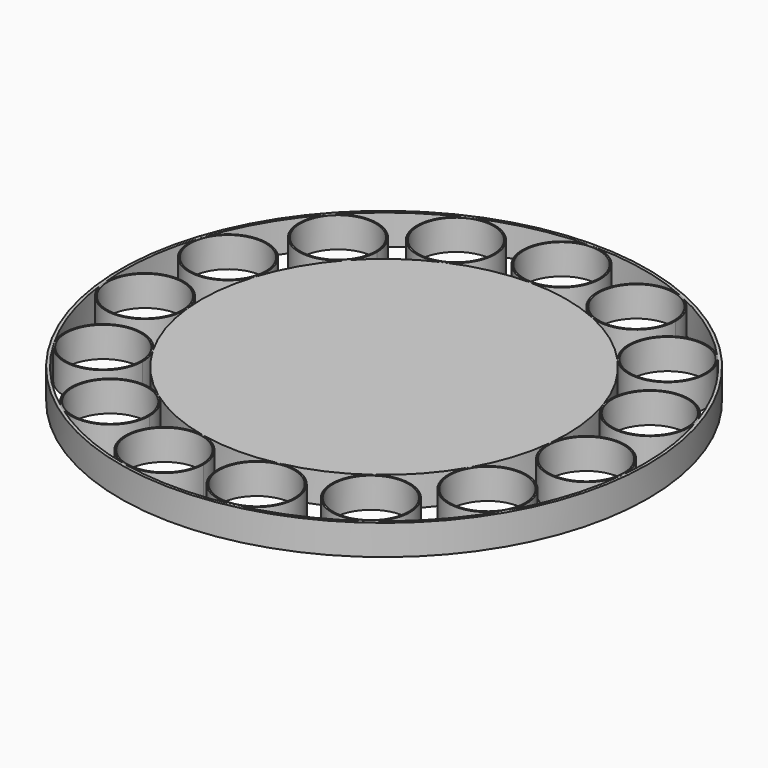
from build123d import *

# Parameters (mm, degrees)
F0_R     = 263
F1_DEPTH = 30
F0_R_2   = 179
F0_R_3   = 37.5
F2_R     = 179
F3_DEPTH = 2


with BuildPart() as f1:
    # F0 (on Top) → F1 (new body)
    with BuildSketch(Plane.XY):
        Circle(F0_R)
        with BuildLine():
            ThreePointArc((193.2176546024, 173.9739576774), (225.166605407, 129.9999992672), (247.2746947697, 80.3444168972))
            ThreePointArc((247.2746947697, 80.3444168972), (256.7989686896, 40.6729600587), (260, 0))
            ThreePointArc((260, 0), (259.6436790177, -13.6073489756), (258.575692722, -27.1774011515))
            ThreePointArc((258.575692722, -27.1774011515), (247.2746940659, -80.3444190634), (225.1666047839, -130.0000003465))
            ThreePointArc((225.1666047839, -130.0000003465), (193.21765526, -173.9739569471), (152.8241674573, -210.3444171852))
            ThreePointArc((152.8241674573, -210.3444171852), (105.7515281671, -237.5218185564), (54.0570394339, -254.3183762288))
            ThreePointArc((54.0570394339, -254.3183762288), (-6.34e-07, -260), (-54.0570406742, -254.3183759651))
            ThreePointArc((-54.0570406742, -254.3183759651), (-105.7515295767, -237.5218179288), (-152.8241689282, -210.3444161166))
            ThreePointArc((-152.8241689282, -210.3444161166), (-193.2176560273, -173.9739560949), (-225.1666050216, -129.9999999347))
            ThreePointArc((-225.1666050216, -129.9999999347), (-247.2746947128, -80.3444170722), (-258.57569311, -27.17739746))
            ThreePointArc((-258.57569311, -27.17739746), (-258.5756927288, 27.1774010868), (-247.2746947697, 80.3444168972))
            ThreePointArc((-247.2746947697, 80.3444168972), (-225.166605407, 129.9999992672), (-193.2176546024, 173.9739576774))
            ThreePointArc((-193.2176546024, 173.9739576774), (-152.8241652635, 210.3444187791), (-105.7515264782, 237.5218193083))
            ThreePointArc((-105.7515264782, 237.5218193083), (-54.0570388878, 254.3183763449), (6.922e-07, 260))
            ThreePointArc((6.922e-07, 260), (54.057040225, 254.3183760606), (105.7515277112, 237.5218187593))
            ThreePointArc((105.7515277112, 237.5218187593), (152.8241658094, 210.3444183825), (193.2176546024, 173.9739576774))
        make_face(mode=Mode.SUBTRACT)
    extrude(amount=-F1_DEPTH)


with BuildPart() as f1b:
    # F0 (on Top) → F1, piece 2 (new body)
    with BuildSketch(Plane.XY):
        with BuildLine():
            ThreePointArc((181.0029849186, -19.0241806807), (181.7505753157, -9.52514422), (182, 0))
            ThreePointArc((182, 0), (179.7592779717, 28.4710727424), (173.0922859, 56.2410931785))
            ThreePointArc((173.0922859, 56.2410931785), (157.6166237351, 90.9999995734), (135.2523590384, 121.7817694671))
            ThreePointArc((135.2523590384, 121.7817694671), (106.9769162369, 147.241092744), (74.0260686674, 166.2652734568))
            ThreePointArc((74.0260686674, 166.2652734568), (37.8399274863, 178.0228633851), (-8.82e-08, 182))
            ThreePointArc((-8.82e-08, 182), (-37.8399284124, 178.0228631882), (-74.0260702361, 166.2652727583))
            ThreePointArc((-74.0260702361, 166.2652727583), (-106.9769158012, 147.2410930605), (-135.2523571687, 121.7817715437))
            ThreePointArc((-135.2523571687, 121.7817715437), (-157.6166228999, 91.0000010199), (-173.0922857312, 56.241093698))
            ThreePointArc((-173.0922857312, 56.241093698), (-181.0029849436, 19.0241804426), (-181.0029849046, -19.0241808138))
            ThreePointArc((-181.0029849046, -19.0241808138), (-173.092286098, -56.2410925691), (-157.6166241678, -90.9999988239))
            ThreePointArc((-157.6166241678, -90.9999988239), (-135.2523585732, -121.7817699838), (-106.9769156318, -147.2410931836))
            ThreePointArc((-106.9769156318, -147.2410931836), (-74.0260678266, -166.2652738311), (-37.839925476, -178.0228638124))
            ThreePointArc((-37.839925476, -178.0228638124), (-2.297e-07, -182), (37.8399250266, -178.0228639079))
            ThreePointArc((37.8399250266, -178.0228639079), (74.0260674081, -166.2652740174), (106.9769152622, -147.2410934521))
            ThreePointArc((106.9769152622, -147.2410934521), (135.2523573096, -121.7817713871), (157.6166225078, -91.000001699))
            ThreePointArc((157.6166225078, -91.000001699), (173.0922856057, -56.2410940842), (181.0029849186, -19.0241806807))
        make_face()
        Circle(F0_R_2, mode=Mode.SUBTRACT)
    extrude(amount=-F1_DEPTH)

    # F2 (on Top) → F3 (join)
    with BuildSketch(Plane.XY):
        Circle(F2_R)
    extrude(amount=-F3_DEPTH)


with BuildPart() as f1c:
    # F0 (on Top) → F1, piece 3 (new body)
    with BuildSketch(Plane.XY):
        with BuildLine():
            ThreePointArc((-6.9484836707, -216.1706197622), (-15.6397904492, -191.6271254062), (-37.839925476, -178.0228638124))
            ThreePointArc((-37.839925476, -178.0228638124), (-84.0962397471, -208.0620621631), (-54.0570406742, -254.3183759651))
            ThreePointArc((-54.0570406742, -254.3183759651), (-21.4049888415, -246.4793126005), (-6.9484836707, -216.1706197622))
        make_face()
        with Locations((-45.9484836707, -216.1706197622)):
            Circle(F0_R_3, mode=Mode.SUBTRACT)
    extrude(amount=-F1_DEPTH)


with BuildPart() as f1d:
    # F0 (on Top) → F1, piece 4 (new body)
    with BuildSketch(Plane.XY):
        with BuildLine():
            ThreePointArc((-90.9005407566, -178.7927557569), (-95.1512862332, -161.0871264242), (-106.9769156318, -147.2410931836))
            ThreePointArc((-106.9769156318, -147.2410931836), (-161.4522022231, -155.8691291087), (-152.8241689282, -210.3444161166))
            ThreePointArc((-152.8241689282, -210.3444161166), (-112.1949131017, -213.5420111351), (-90.9005407566, -178.7927557569))
        make_face()
        with Locations((-129.9005407566, -178.7927557569)):
            Circle(F0_R_3, mode=Mode.SUBTRACT)
    extrude(amount=-F1_DEPTH)


with BuildPart() as f1e:
    # F0 (on Top) → F1, piece 5 (new body)
    with BuildSketch(Plane.XY):
        with BuildLine():
            ThreePointArc((-152.3916142364, -110.5), (-153.7205071868, -100.4060565851), (-157.6166241678, -90.9999988239))
            ThreePointArc((-157.6166241678, -90.9999988239), (-210.8916147918, -76.7250095731), (-225.1666050216, -129.9999999347))
            ThreePointArc((-225.1666050216, -129.9999999347), (-181.2976715138, -148.171107235), (-152.3916142364, -110.5))
        make_face()
        with Locations((-191.3916142364, -110.5)):
            Circle(F0_R_3, mode=Mode.SUBTRACT)
    extrude(amount=-F1_DEPTH)


with BuildPart() as f1f:
    # F0 (on Top) → F1, piece 6 (new body)
    with BuildSketch(Plane.XY):
        with BuildLine():
            ThreePointArc((-180.7893388764, -23.1007903822), (-180.8427870078, -21.0596883392), (-181.0029849046, -19.0241808138))
            ThreePointArc((-181.0029849046, -19.0241808138), (-223.8659471995, 15.6855637205), (-258.57569311, -27.17739746))
            ThreePointArc((-258.57569311, -27.17739746), (-217.7482380839, -62.0473423162), (-180.7893388764, -23.1007903822))
        make_face()
        with Locations((-219.7893388764, -23.1007903822)):
            Circle(F0_R_3, mode=Mode.SUBTRACT)
    extrude(amount=-F1_DEPTH)


with BuildPart() as f1g:
    # F0 (on Top) → F1, piece 7 (new body)
    with BuildSketch(Plane.XY):
        with BuildLine():
            ThreePointArc((-247.2746947697, 80.3444168972), (-222.2351517008, 31.2015512376), (-173.0922857312, 56.241093698))
            ThreePointArc((-173.0922857312, 56.241093698), (-171.6636447587, 62.1918119951), (-171.1834901012, 68.2927557569))
            ThreePointArc((-171.1834901012, 68.2927557569), (-204.0825468164, 106.812601175), (-247.2746947697, 80.3444168972))
        make_face()
        with Locations((-210.1834901012, 68.2927557569)):
            Circle(F0_R_3, mode=Mode.SUBTRACT)
    extrude(amount=-F1_DEPTH)


with BuildPart() as f1h:
    # F0 (on Top) → F1, piece 8 (new body)
    with BuildSketch(Plane.XY):
        with BuildLine():
            ThreePointArc((-193.2176546024, 173.9739576774), (-190.3310994974, 118.8952152884), (-135.2523571687, 121.7817715437))
            ThreePointArc((-135.2523571687, 121.7817715437), (-127.8253695111, 133.9015147182), (-125.2350064305, 147.8778640053))
            ThreePointArc((-125.2350064305, 147.8778640053), (-150.2586563831, 184.2875006329), (-193.2176546024, 173.9739576774))
        make_face()
        with Locations((-164.2350064305, 147.8778640053)):
            Circle(F0_R_3, mode=Mode.SUBTRACT)
    extrude(amount=-F1_DEPTH)


with BuildPart() as f1i:
    # F0 (on Top) → F1, piece 9 (new body)
    with BuildSketch(Plane.XY):
        with BuildLine():
            ThreePointArc((-105.7515264782, 237.5218193083), (-125.5170713948, 186.030818018), (-74.0260702361, 166.2652727583))
            ThreePointArc((-74.0260702361, 166.2652727583), (-57.1806463265, 180.6526232243), (-50.8887981198, 201.893546139))
            ThreePointArc((-50.8887981198, 201.893546139), (-68.647875423, 234.6016980738), (-105.7515264782, 237.5218193083))
        make_face()
        with Locations((-89.8887981198, 201.893546139)):
            Circle(F0_R_3, mode=Mode.SUBTRACT)
    extrude(amount=-F1_DEPTH)


with BuildPart() as f1j:
    # F0 (on Top) → F1, piece 10 (new body)
    with BuildSketch(Plane.XY):
        with BuildLine():
            ThreePointArc((6.922e-07, 260), (-39, 221.0000003902), (-8.82e-08, 182))
            ThreePointArc((-8.82e-08, 182), (27.5771644351, 193.4228355025), (39, 221))
            ThreePointArc((39, 221), (27.577164711, 248.5771642215), (6.922e-07, 260))
        make_face()
        with Locations((0, 221)):
            Circle(F0_R_3, mode=Mode.SUBTRACT)
    extrude(amount=-F1_DEPTH)


with BuildPart() as f1k:
    # F0 (on Top) → F1, piece 11 (new body)
    with BuildSketch(Plane.XY):
        with BuildLine():
            ThreePointArc((168.9005407566, -178.7927557569), (147.6061698858, -144.0435011297), (106.9769152622, -147.2410934521))
            ThreePointArc((106.9769152622, -147.2410934521), (98.3488788901, -201.7163818544), (152.8241674573, -210.3444171852))
            ThreePointArc((152.8241674573, -210.3444171852), (164.6497957222, -196.4983842218), (168.9005407566, -178.7927557569))
        make_face()
        with Locations((129.9005407566, -178.7927557569)):
            Circle(F0_R_3, mode=Mode.SUBTRACT)
    extrude(amount=-F1_DEPTH)


with BuildPart() as f1l:
    # F0 (on Top) → F1, piece 12 (new body)
    with BuildSketch(Plane.XY):
        with BuildLine():
            ThreePointArc((84.9484836707, -216.1706197622), (70.4919778482, -185.8619263961), (37.8399250266, -178.0228639079))
            ThreePointArc((37.8399250266, -178.0228639079), (7.8007275103, -224.2791769658), (54.0570394339, -254.3183762288))
            ThreePointArc((54.0570394339, -254.3183762288), (76.2571761101, -240.7141150841), (84.9484836707, -216.1706197622))
        make_face()
        with Locations((45.9484836707, -216.1706197622)):
            Circle(F0_R_3, mode=Mode.SUBTRACT)
    extrude(amount=-F1_DEPTH)


with BuildPart() as f1m:
    # F0 (on Top) → F1, piece 13 (new body)
    with BuildSketch(Plane.XY):
        with BuildLine():
            ThreePointArc((105.7515277112, 237.5218187593), (54.2605254685, 217.7562756609), (74.0260686674, 166.2652734568))
            ThreePointArc((74.0260686674, 166.2652734568), (111.1297203144, 169.1853938781), (128.8887981198, 201.893546139))
            ThreePointArc((128.8887981198, 201.893546139), (122.5969504221, 223.1344682698), (105.7515277112, 237.5218187593))
        make_face()
        with Locations((89.8887981198, 201.893546139)):
            Circle(F0_R_3, mode=Mode.SUBTRACT)
    extrude(amount=-F1_DEPTH)


with BuildPart() as f1n:
    # F0 (on Top) → F1, piece 14 (new body)
    with BuildSketch(Plane.XY):
        with BuildLine():
            ThreePointArc((193.2176546024, 173.9739576774), (138.1389123254, 176.8605117873), (135.2523590384, 121.7817694671))
            ThreePointArc((135.2523590384, 121.7817694671), (178.2113570219, 111.4682275866), (203.2350064305, 147.8778640053))
            ThreePointArc((203.2350064305, 147.8778640053), (200.6446430581, 161.8542140527), (193.2176546024, 173.9739576774))
        make_face()
        with Locations((164.2350064305, 147.8778640053)):
            Circle(F0_R_3, mode=Mode.SUBTRACT)
    extrude(amount=-F1_DEPTH)


with BuildPart() as f1o:
    # F0 (on Top) → F1, piece 15 (new body)
    with BuildSketch(Plane.XY):
        with BuildLine():
            ThreePointArc((247.2746947697, 80.3444168972), (198.1318282419, 105.3839601917), (173.0922859, 56.2410931785))
            ThreePointArc((173.0922859, 56.2410931785), (216.2844341328, 29.772910457), (249.1834901012, 68.2927557569))
            ThreePointArc((249.1834901012, 68.2927557569), (248.7033355193, 74.3936990417), (247.2746947697, 80.3444168972))
        make_face()
        with Locations((210.1834901012, 68.2927557569)):
            Circle(F0_R_3, mode=Mode.SUBTRACT)
    extrude(amount=-F1_DEPTH)


with BuildPart() as f1p:
    # F0 (on Top) → F1, piece 16 (new body)
    with BuildSketch(Plane.XY):
        with BuildLine():
            ThreePointArc((258.7893388764, -23.1007903822), (221.8304409861, 15.8457614829), (181.0029849186, -19.0241806807))
            ThreePointArc((181.0029849186, -19.0241806807), (215.712728641, -61.8871442839), (258.575692722, -27.1774011515))
            ThreePointArc((258.575692722, -27.1774011515), (258.7358907133, -25.141893028), (258.7893388764, -23.1007903822))
        make_face()
        with Locations((219.7893388764, -23.1007903822)):
            Circle(F0_R_3, mode=Mode.SUBTRACT)
    extrude(amount=-F1_DEPTH)


with BuildPart() as f1q:
    # F0 (on Top) → F1, piece 17 (new body)
    with BuildSketch(Plane.XY):
        with BuildLine():
            ThreePointArc((230.3916142364, -110.5), (201.4855560478, -72.8288925208), (157.6166225078, -91.000001699))
            ThreePointArc((157.6166225078, -91.000001699), (171.8916149126, -144.274991138), (225.1666047839, -130.0000003465))
            ThreePointArc((225.1666047839, -130.0000003465), (229.0627214099, -120.5939429522), (230.3916142364, -110.5))
        make_face()
        with Locations((191.3916142364, -110.5)):
            Circle(F0_R_3, mode=Mode.SUBTRACT)
    extrude(amount=-F1_DEPTH)


solid = Compound([f1.part, f1b.part, f1c.part, f1d.part, f1e.part, f1f.part, f1g.part, f1h.part, f1i.part, f1j.part, f1k.part, f1l.part, f1m.part, f1n.part, f1o.part, f1p.part, f1q.part])
